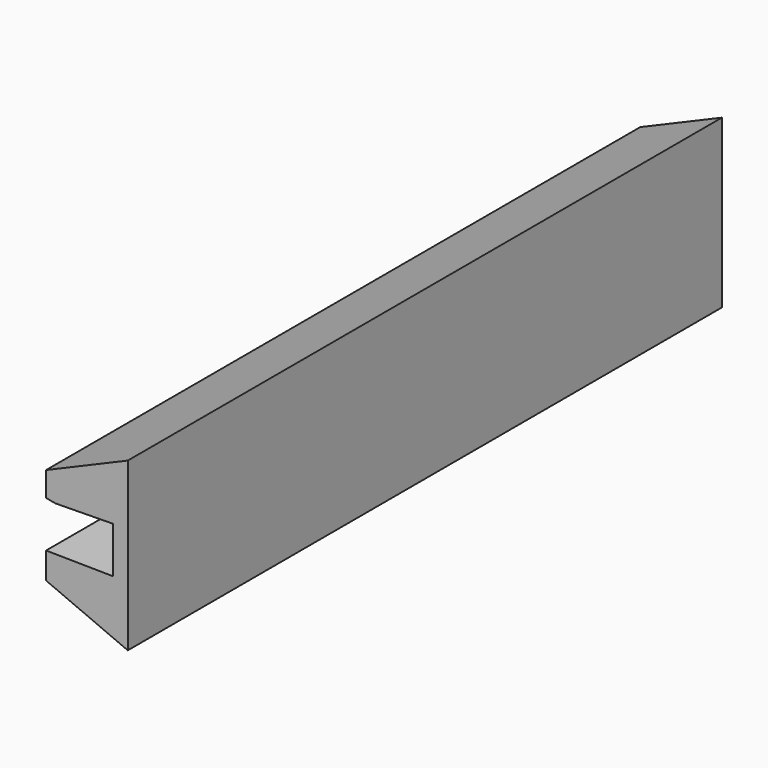
from build123d import *

# Parameters (mm, degrees)
F1_DEPTH = 400
F2_SIZE2 = 1
F2_SIZE  = 5


with BuildPart() as f1:
    # F0 (on Front) → F1 (new body)
    with BuildSketch(Plane.XZ):
        Polygon((-25.9359870106, 19.8727920651), (-25.9359870106, 5.6222789221), (10.0640129894, 6.1222789221), (10.0640129894, -18.7777210779), (-25.9359870106, -18.2777210779), (-25.9359870106, -32.528234221), (18.0640129894, -51.3277210779), (18.0640129894, -6.3277210779), (18.0640129894, 38.6722789221), align=None)
    extrude(amount=F1_DEPTH)

    # F2
    f2_edges = [f1.edges().sort_by_distance(p)[0] for p in [
        (-25.935987, -200, 5.622279),
    ]]
    f2_side = f1.faces().sort_by_distance((-7.935987, -200, 5.872279))[0]
    chamfer(f2_edges, length=F2_SIZE, length2=F2_SIZE2, reference=f2_side)


solid = f1.part
